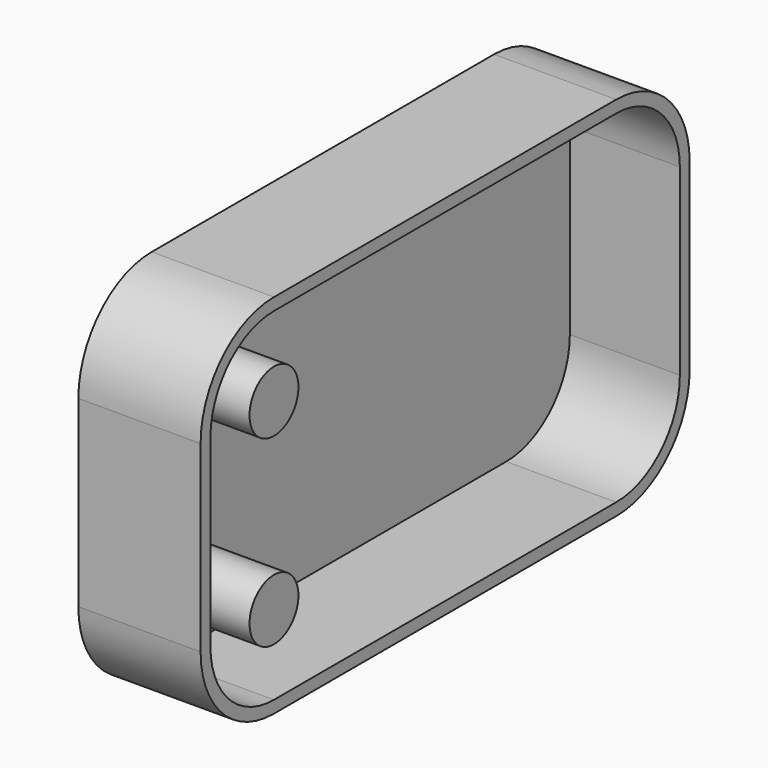
from build123d import *

# Parameters (mm, degrees)
F0_W     = 127
F0_H     = 76.2
F1_DEPTH = 25.4
F2_R     = 19.05
F3_T     = -2.54
F4_R     = 6.35
F5_DEPTH = 22.86


with BuildPart() as f1:
    # F0 (on Right) → F1 (new body)
    with BuildSketch(Plane.YZ):
        with Locations((-63.5, 38.1)):
            Rectangle(F0_W, F0_H)
    extrude(amount=-F1_DEPTH)

    # F2
    f2_edges = [f1.edges().sort_by_distance(p)[0] for p in [
        (-12.7, -127, 76.2),
        (-12.7, -127, 0),
        (-12.7, 0, 76.2),
        (-12.7, 0, 0),
    ]]
    fillet(f2_edges, radius=F2_R)

    # F3
    f3_openings = [f1.faces().sort_by_distance(p)[0] for p in [
        (0, -63.5, 38.1),
    ]]
    offset(amount=F3_T, openings=f3_openings)

    # F4 (on face) → F5 (join, through all)
    with BuildSketch(Plane.YZ.offset(-22.86)):
        with Locations((-107.95, 57.15)):
            Circle(F4_R)
        with Locations((-107.95, 19.05)):
            Circle(F4_R)
    extrude(amount=F5_DEPTH)


solid = f1.part
